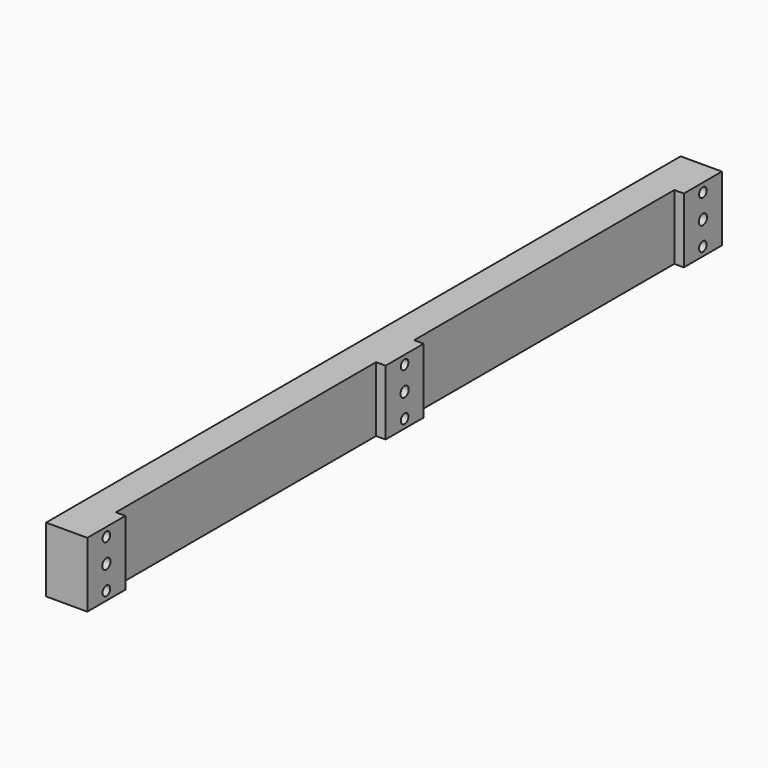
from build123d import *

# Parameters (mm, degrees)
F0_W     = 500
F0_H     = 41
F0_R     = 3
F0_R_2   = 3.25
F1_DEPTH = 26
F2_W     = 6
F2_H     = 205
F3_DEPTH = 41


with BuildPart() as f1:
    # F0 (on Right) → F1 (new body)
    with BuildSketch(Plane.YZ):
        with Locations((-108.96641, 27.840261)):
            Rectangle(F0_W, F0_H)
        with Locations((-343.96641, 12.840261)):
            Circle(F0_R, mode=Mode.SUBTRACT)
        with Locations((-343.96641, 27.840261)):
            Circle(F0_R_2, mode=Mode.SUBTRACT)
        with Locations((-108.96641, 12.840261)):
            Circle(F0_R, mode=Mode.SUBTRACT)
        with Locations((126.03359, 12.840261)):
            Circle(F0_R, mode=Mode.SUBTRACT)
        with Locations((-343.96641, 42.840261)):
            Circle(F0_R, mode=Mode.SUBTRACT)
        with Locations((-108.96641, 27.840261)):
            Circle(F0_R_2, mode=Mode.SUBTRACT)
        with Locations((126.03359, 27.840261)):
            Circle(F0_R_2, mode=Mode.SUBTRACT)
        with Locations((-108.96641, 42.840261)):
            Circle(F0_R, mode=Mode.SUBTRACT)
        with Locations((126.03359, 42.840261)):
            Circle(F0_R, mode=Mode.SUBTRACT)
    extrude(amount=F1_DEPTH)

    # F2 (on face) → F3 (cut, through all)
    with BuildSketch(Plane.XY.offset(48.340261)):
        with Locations((23, -226.46641)):
            Rectangle(F2_W, F2_H)
        with Locations((23, 8.53359)):
            Rectangle(F2_W, F2_H)
    extrude(amount=-F3_DEPTH, mode=Mode.SUBTRACT)


solid = f1.part
